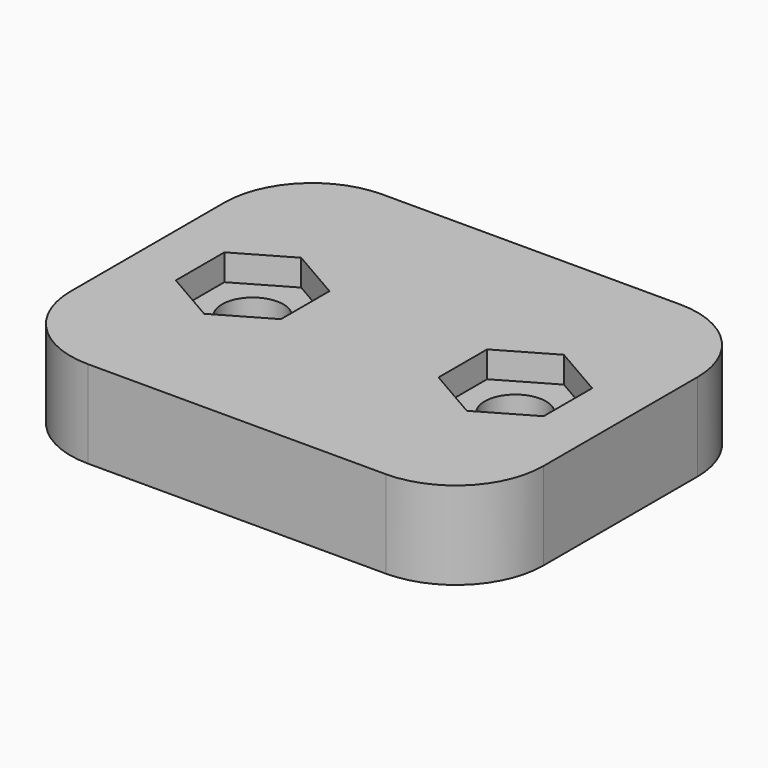
from build123d import *

# Parameters (mm, degrees)
F0_W     = 27
F0_H     = 21
F0_R     = 1.75
F1_DEPTH = 5
F2_R     = 5
F3_R     = 1.75
F4_DEPTH = 1.5


with BuildPart() as f1:
    # F0 (on Top) → F1 (new body)
    with BuildSketch(Plane.XY):
        with Locations((8.77302, -3.012353)):
            Rectangle(F0_W, F0_H)
        with Locations((1.27302, -3.012353)):
            Circle(F0_R, mode=Mode.SUBTRACT)
        with Locations((16.27302, -3.012353)):
            Circle(F0_R, mode=Mode.SUBTRACT)
    extrude(amount=F1_DEPTH)

    # F2
    f2_edges = [f1.edges().sort_by_distance(p)[0] for p in [
        (-4.72698, -13.512353, 2.5),
        (22.27302, -13.512353, 2.5),
        (22.27302, 7.487647, 2.5),
        (-4.72698, 7.487647, 2.5),
    ]]
    fillet(f2_edges, radius=F2_R)

    # F3 (on face) → F4 (cut)
    with BuildSketch(Plane.XY.offset(5)):
        Polygon((4.27302, -4.744403), (4.27302, -1.280302), (1.27302, 0.451749), (-1.72698, -1.280302), (-1.72698, -4.744403), (1.27302, -6.476454), align=None)
        with Locations((1.27302, -3.012353)):
            Circle(F3_R, mode=Mode.SUBTRACT)
        Polygon((19.27302, -4.744403), (19.27302, -1.280302), (16.27302, 0.451749), (13.27302, -1.280302), (13.27302, -4.744403), (16.27302, -6.476454), align=None)
        with Locations((16.27302, -3.012353)):
            Circle(F3_R, mode=Mode.SUBTRACT)
    extrude(amount=-F4_DEPTH, mode=Mode.SUBTRACT)


solid = f1.part
